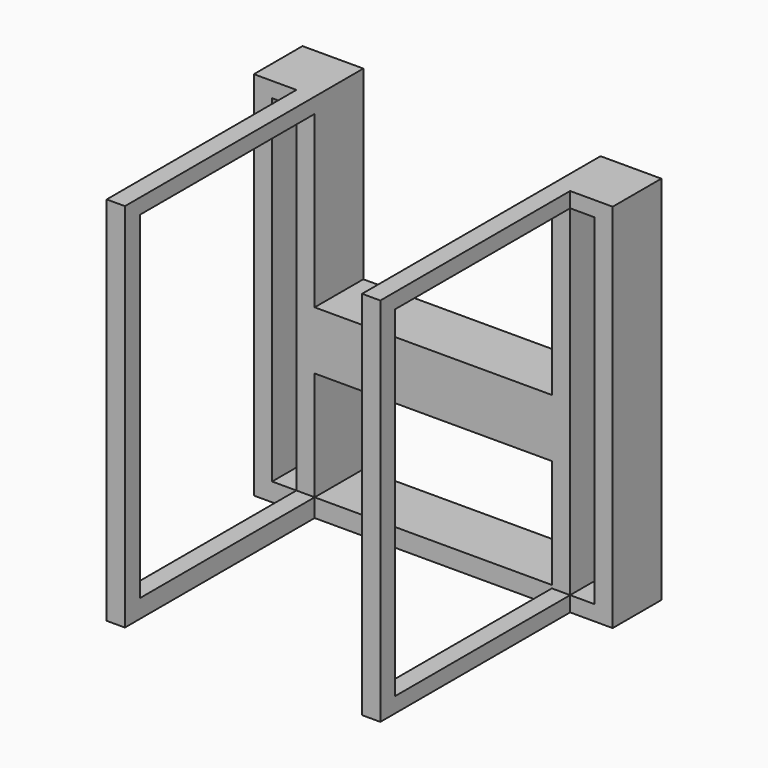
from build123d import *

# Parameters (mm, degrees)
F1_DEPTH  = 127
F2_W      = 50.8
F2_H      = 704.724253
F3_DEPTH  = 127
F4_W      = 50.8
F4_H      = 711.2
F5_DEPTH  = 127
F6_W      = 495.3
F6_H      = 227.711381
F7_DEPTH  = 127
F8_W      = 38.1
F8_H      = 31.75
F9_DEPTH  = 495.3
F10_W     = 38.1
F10_H     = 39.75013
F11_DEPTH = 736.6
F12_W     = 38.1
F12_H     = 37.97719
F13_DEPTH = 736.6


with BuildPart() as f1:
    # F0 (on Front) → F1 (new body)
    with BuildSketch(Plane.XZ):
        Polygon((-227.385405, 388.756426), (-354.385405, 388.756426), (-354.385405, -385.943574), (394.914595, -385.943574), (394.914595, 388.756426), (267.914595, 388.756426), (267.914595, 1.406426), (-227.385405, 1.406426), align=None)
    extrude(amount=F1_DEPTH)

    # F2 (on face) → F3 (cut)
    with BuildSketch(Plane.XZ.offset(127)):
        with Locations((-290.885405, 4.644299)):
            Rectangle(F2_W, F2_H)
    extrude(amount=-F3_DEPTH, mode=Mode.SUBTRACT)

    # F4 (on face) → F5 (cut)
    with BuildSketch(Plane.XZ.offset(127)):
        with Locations((331.414595, 1.406426)):
            Rectangle(F4_W, F4_H)
    extrude(amount=-F5_DEPTH, mode=Mode.SUBTRACT)

    # F6 (on face) → F7 (cut)
    with BuildSketch(Plane.XZ.offset(127)):
        with Locations((20.264595, -233.987884)):
            Rectangle(F6_W, F6_H)
    extrude(amount=-F7_DEPTH, mode=Mode.SUBTRACT)

    # F8 (on face) → F9 (join)
    with BuildSketch(Plane.XZ.offset(127)):
        with Locations((-246.435405, 372.881426)):
            Rectangle(F8_W, F8_H)
        with Locations((286.964595, 372.881426)):
            Rectangle(F8_W, F8_H)
        with Locations((286.964595, -370.068574)):
            Rectangle(F8_W, F8_H)
        Polygon((-227.385405, -347.717827), (-265.485405, -347.717827), (-265.485405, -385.943574), (-227.385405, -385.943574), (-227.385405, -347.843574), align=None)
    extrude(amount=F9_DEPTH)

    # F10 (on face) → F11 (join)
    with BuildSketch(Plane(origin=(0, 0, 357.006426), x_dir=(1, 0, 0), z_dir=(0, 0, -1))):
        with Locations((-246.435405, 602.424935)):
            Rectangle(F10_W, F10_H)
    extrude(amount=F11_DEPTH)

    # F12 (on face) → F13 (join)
    with BuildSketch(Plane(origin=(0, 0, 357.006426), x_dir=(1, 0, 0), z_dir=(0, 0, -1))):
        with Locations((286.964595, 603.311405)):
            Rectangle(F12_W, F12_H)
    extrude(amount=F13_DEPTH)


solid = f1.part
